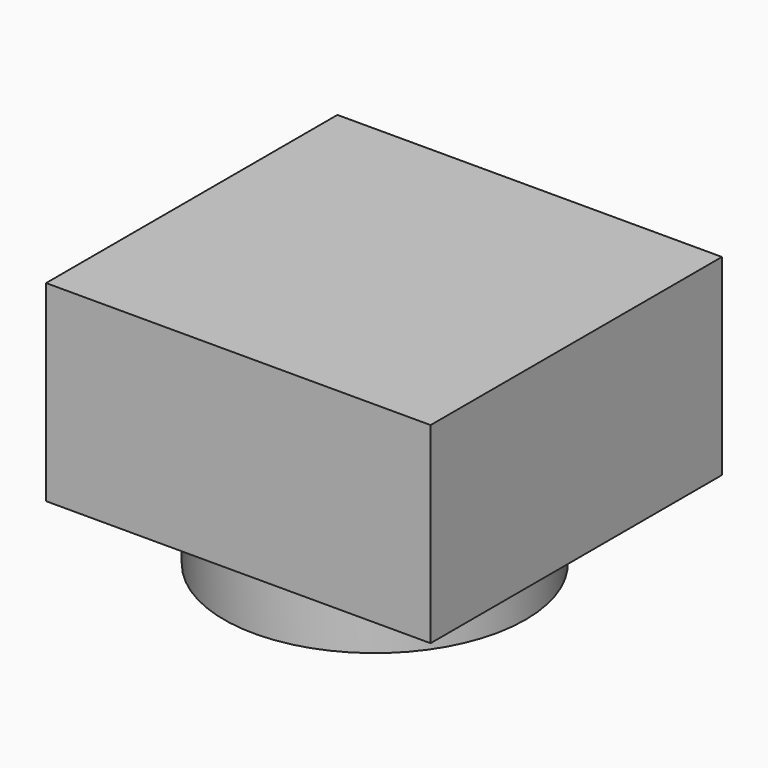
from build123d import *

# Parameters (mm, degrees)
F0_W     = 80.089839
F0_H     = 75.850955
F1_DEPTH = 40
F2_R     = 28.784991
F3_DEPTH = 30
F4_R     = 31.401524
F4_R_2   = 28.550589
F5_DEPTH = 11.5


with BuildPart() as f1:
    # F0 (on Top) → F1 (new body)
    with BuildSketch(Plane.XY):
        with Locations((-9.407865, -16.568296)):
            Rectangle(F0_W, F0_H)
    extrude(amount=F1_DEPTH)

    # F2 (on Top) → F3 (cut)
    with BuildSketch(Plane.XY):
        with Locations((-7.680858, -21.122221)):
            Circle(F2_R)
    extrude(amount=F3_DEPTH, mode=Mode.SUBTRACT)

    # F4 (on face) → F5 (join)
    with BuildSketch(Plane(origin=(0, 0, 0), x_dir=(1, 0, 0), z_dir=(0, 0, -1))):
        with Locations((-7.680858, 21.122221)):
            Circle(F4_R)
        with Locations((-7.680858, 21.122221)):
            Circle(F4_R_2, mode=Mode.SUBTRACT)
    extrude(amount=F5_DEPTH)


solid = f1.part
